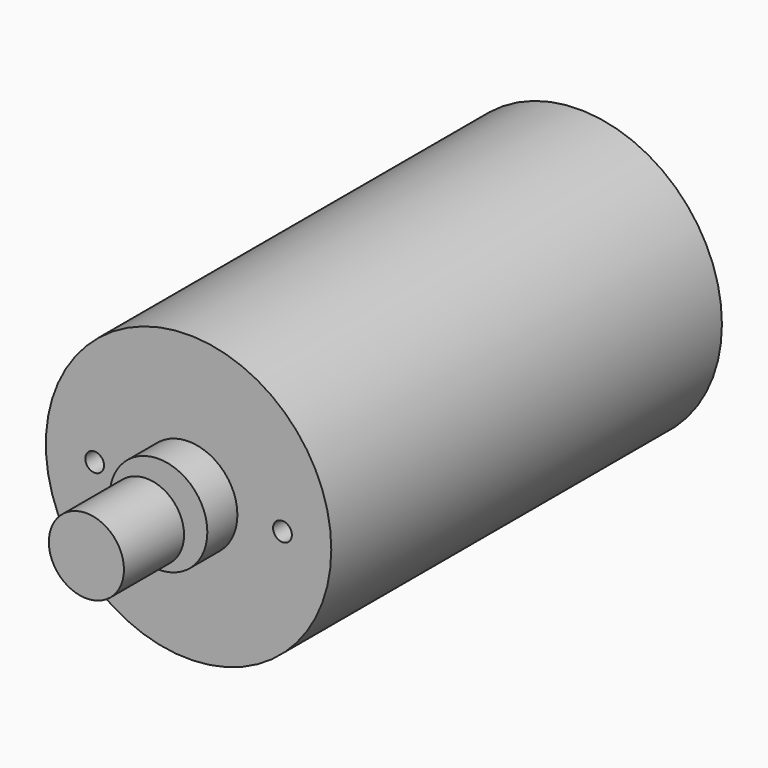
from build123d import *

# Parameters (mm, degrees)
F0_R     = 19
F0_R_2   = 1.25
F0_R_3   = 6.5
F1_DEPTH = 65
F2_DEPTH = 5
F3_R     = 1.6
F4_DEPTH = 12
F5_R     = 5
F5_R_2   = 1.6
F6_DEPTH = 10


with BuildPart() as f1:
    # F0 (on Front) → F1 (new body)
    with BuildSketch(Plane.XZ):
        Circle(F0_R)
        with Locations((-12.5, 0)):
            Circle(F0_R_2, mode=Mode.SUBTRACT)
        Circle(F0_R_3, mode=Mode.SUBTRACT)
        with Locations((12.5, 0)):
            Circle(F0_R_2, mode=Mode.SUBTRACT)
        Circle(F0_R_3)
    extrude(amount=-F1_DEPTH)

    # F0 (on Front) → F2 (join)
    with BuildSketch(Plane.XZ):
        Circle(F0_R_3)
    extrude(amount=F2_DEPTH)

    # F3 (on face) → F4 (join)
    with BuildSketch(Plane.XZ.offset(5)):
        Circle(F3_R)
    extrude(amount=F4_DEPTH)

    # F5 (on face) → F6 (join)
    with BuildSketch(Plane.XZ.offset(17)):
        Circle(F5_R)
        Circle(F5_R_2, mode=Mode.SUBTRACT)
    extrude(amount=-F6_DEPTH)


solid = f1.part
